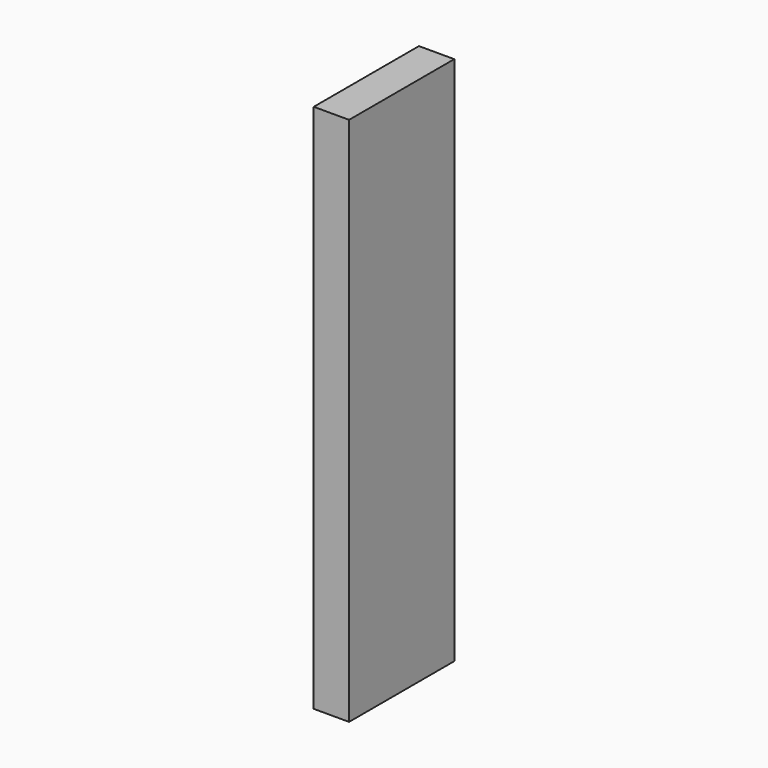
from build123d import *

# Parameters (mm, degrees)
F0_W     = 0.2687722445
F0_H     = 4.0315650403
F1_DEPTH = 1
F0_W_2   = 74.9872028828
F0_H_2   = 55.9044405818
F2_DEPTH = 74.5


with BuildPart() as f1:
    # F0 (on Front) → F1 (new body)
    with BuildSketch(Plane.XZ):
        with Locations((-75.121589005, 57.920223102)):
            Rectangle(F0_W, F0_H)
    extrude(amount=F1_DEPTH)


with BuildPart() as f1b:
    # F0 (on Front) → F1, piece 2 (new body)
    with BuildSketch(Plane.XZ):
        with Locations((-37.4936014414, 27.9522202909)):
            Rectangle(F0_W_2, F0_H_2)
    extrude(amount=F1_DEPTH)

    # F2 (cut): a face of the model
    f2_faces = [f1b.faces().sort_by_distance(p)[0] for p in [
        (-37.4936014414, 0, 27.9522202909),
    ]]
    extrude(f2_faces, amount=-F2_DEPTH, mode=Mode.SUBTRACT)


solid = f1.part
